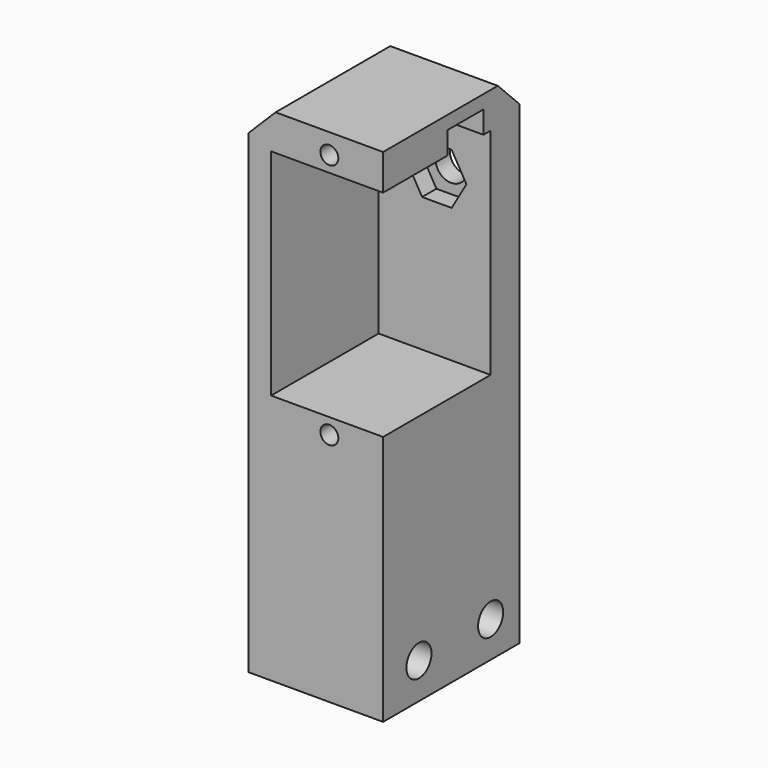
from build123d import *

# Parameters (mm, degrees)
BOX069_W                 = 5
BOX069_H                 = 12
BOX069_DEPTH             = 7.5
CYLINDER075_R            = 1.75
CYLINDER075_DEPTH        = 32
PRISM001_DEPTH           = 10
SKETCH015_R              = 1
SKETCH015_W              = 24
SKETCH015_H              = 13
PAD010_DEPTH             = 30
CYLINDER073_R            = 1.75
CYLINDER073_DEPTH        = 32
CYLINDER073_ROLL_ANGLE   = -90
CYLINDER074_R            = 1.75
CYLINDER074_DEPTH        = 32
CYLINDER074_ROLL_ANGLE   = -90
BOX054_W                 = 19
BOX054_H                 = 15
BOX054_DEPTH             = 56
CHAMFER108_SIZE          = 3
FILLET018013051_R        = 0.5
CLONE026_PLACEMENT_ANGLE = -90


with BuildPart() as cubo015:
    # Box069 → Box069 (new body)
    with BuildSketch(Plane(origin=(9, 97, 127), x_dir=(1, 0, 0), z_dir=(0, 0, 1))):
        with Locations((2.5, 6)):
            Rectangle(BOX069_W, BOX069_H)
    extrude(amount=BOX069_DEPTH)


with BuildPart() as cilindro016:
    # Cylinder075 → Cylinder075 (new body)
    with BuildSketch(Plane(origin=(-5, 104, 125.85), x_dir=(0, -1, 0), z_dir=(1, 0, 0))):
        Circle(CYLINDER075_R)
    extrude(amount=CYLINDER075_DEPTH)


with BuildPart() as fusion057:
    # Prism001 → Prism001 (new body)
    with BuildSketch(Plane(origin=(6, 104, 125.85), x_dir=(0, -1, 0), z_dir=(1, 0, 0))):
        Polygon((3.3, 0), (1.65, 2.857884), (-1.65, 2.857884), (-3.3, 0), (-1.65, -2.857884), (1.65, -2.857884), align=None)
    extrude(amount=PRISM001_DEPTH)

    # Fusion057: union Cilindro016
    add(cilindro016.part)


with BuildPart() as pad010:
    # Sketch015 → Pad010 (new body)
    with BuildSketch(Plane(origin=(38, -16, 143.25), x_dir=(0, 0, -1), z_dir=(1, 0, 0))):
        with Locations((37, 120)):
            Circle(SKETCH015_R)
        with Locations((9.5, 120)):
            Circle(SKETCH015_R)
        with Locations((23.25, 120)):
            Rectangle(SKETCH015_W, SKETCH015_H)
    extrude(amount=-PAD010_DEPTH)


with BuildPart() as cilindro014:
    # Cylinder073 → Cylinder073 (new body)
    with BuildSketch(Plane.XY):
        Circle(CYLINDER073_R)
    extrude(amount=CYLINDER073_DEPTH)


with BuildPart() as cilindro014_1:
    # Cylinder073 roll: moved
    add(cilindro014.part.rotate(Axis((0, 0, 0), (1, 0, 0)), CYLINDER073_ROLL_ANGLE))


with BuildPart() as cilindro014_2:
    # Cylinder073 placement: moved
    add(cilindro014_1.part.moved(Location((8, 90, 84))))


with BuildPart() as fusion056:
    # Cylinder074 → Cylinder074 (new body)
    with BuildSketch(Plane.XY):
        Circle(CYLINDER074_R)
    extrude(amount=CYLINDER074_DEPTH)


with BuildPart() as fusion056_1:
    # Cylinder074 roll: moved
    add(fusion056.part.rotate(Axis((0, 0, 0), (1, 0, 0)), CYLINDER074_ROLL_ANGLE))


with BuildPart() as fusion056_2:
    # Cylinder074 placement: moved
    add(fusion056_1.part.moved(Location((18, 90, 84))))

    # Fusion056: union Cilindro014
    add(cilindro014_2.part)


with BuildPart() as clone_of_arm:
    # Box054 → Box054 (new body)
    with BuildSketch(Plane(origin=(4, 98, 80), x_dir=(1, 0, 0), z_dir=(0, 0, 1))):
        with Locations((9.5, 7.5)):
            Rectangle(BOX054_W, BOX054_H)
    extrude(amount=BOX054_DEPTH)

    # Cut098: cut Fusion056
    add(fusion056_2.part, mode=Mode.SUBTRACT)

    # Cut099: cut Pad010
    add(pad010.part, mode=Mode.SUBTRACT)

    # Chamfer108
    chamfer108_edges = [clone_of_arm.edges().sort_by_distance(p)[0] for p in [
        (4, 105.5, 136),
        (13.5, 113, 136),
    ]]
    chamfer(chamfer108_edges, length=CHAMFER108_SIZE)

    # Cut100: cut Fusion057
    add(fusion057.part, mode=Mode.SUBTRACT)

    # Cut114: cut Cubo015
    add(cubo015.part, mode=Mode.SUBTRACT)

    # Fillet018013051
    fillet018013051_edges = [clone_of_arm.edges().sort_by_distance(p)[0] for p in [
        (11.5, 109, 134.5),
    ]]
    fillet(fillet018013051_edges, radius=FILLET018013051_R)


with BuildPart() as clone_of_arm_1:
    # Clone026 placement: moved
    add(clone_of_arm.part.moved(Location((-275, 70, 2.5))).rotate(Axis((-275, 70, 2.5), (0, 0, 1)), CLONE026_PLACEMENT_ANGLE))


with BuildPart() as clone_of_arm001:
    # Part__Mirroring007016: instance of Clone of arm
    add(clone_of_arm_1.part.mirror(Plane(origin=(0, 0, 0), x_dir=(0, -1, 0), z_dir=(1, 0, 0))))


with BuildPart() as clone_of_arm001_1:
    # Part__Mirroring007016 placement: moved
    add(clone_of_arm001.part.moved(Location((-478, 0, 0))))


solid = clone_of_arm001_1.part
